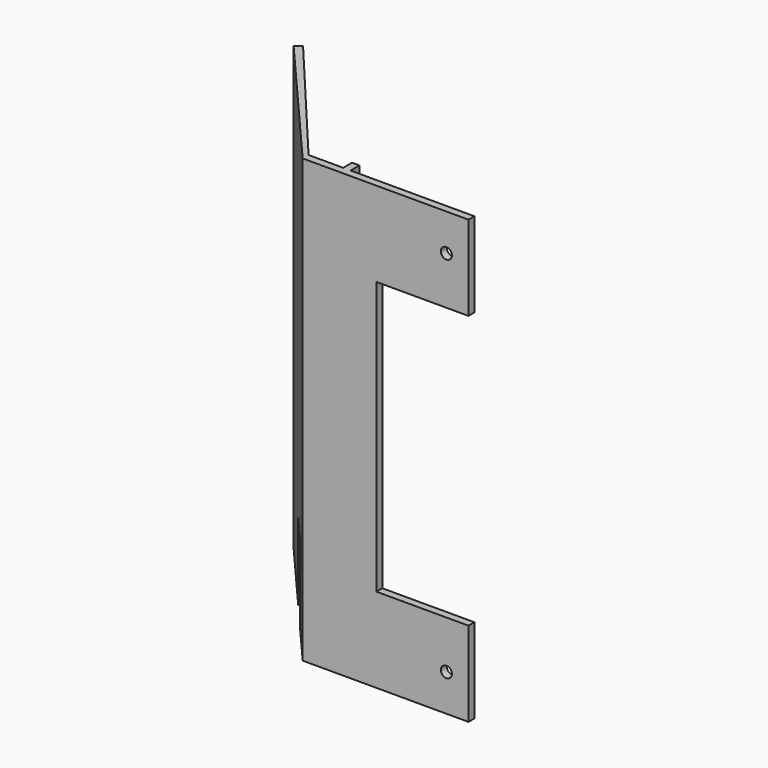
from build123d import *

# Parameters (mm, degrees)
F1_DEPTH = 120
F6_R     = 1.5
F6_W     = 25
F6_H     = 74
F2_DEPTH = 2.001
F6_W_2   = 2
F6_H_2   = 120
F3_DEPTH = 3
F4_W     = 11
F4_H     = 21
F5_DEPTH = 25


with BuildPart() as f1:
    # F0 (on Top) → F1 (new body)
    with BuildSketch(Plane.XY):
        Polygon((45, 0), (0, 0), (-32.1393804843, 38.3022221559), (-33.6714693706, 37.0166469366), (0, -2), (45, -2), align=None)
    extrude(amount=F1_DEPTH)

    # F6 (on face) → F2 (cut, through all)
    with BuildSketch(Plane(origin=(0, 0, 0), x_dir=(-1, 0, 0), z_dir=(0, 1, 0))):
        with Locations((-39, 110)):
            Circle(F6_R)
        with Locations((-39, 10)):
            Circle(F6_R)
        with Locations((-32.5, 60)):
            Rectangle(F6_W, F6_H)
    extrude(amount=-F2_DEPTH, mode=Mode.SUBTRACT)

    # F6 (on face) → F3 (join)
    with BuildSketch(Plane(origin=(0, 0, 0), x_dir=(-1, 0, 0), z_dir=(0, 1, 0))):
        with Locations((-10.4, 60)):
            Rectangle(F6_W_2, F6_H_2)
    extrude(amount=F3_DEPTH)

    # F4 (on face) → F5 (cut)
    with BuildSketch(Plane(origin=(0, 0, 0), x_dir=(-0.6427876097, 0.7660444431, 0), z_dir=(0.7660444431, 0.6427876097, 0))):
        with Locations((18.5, 10.5)):
            Rectangle(F4_W, F4_H)
    extrude(amount=-F5_DEPTH, mode=Mode.SUBTRACT)


solid = f1.part
